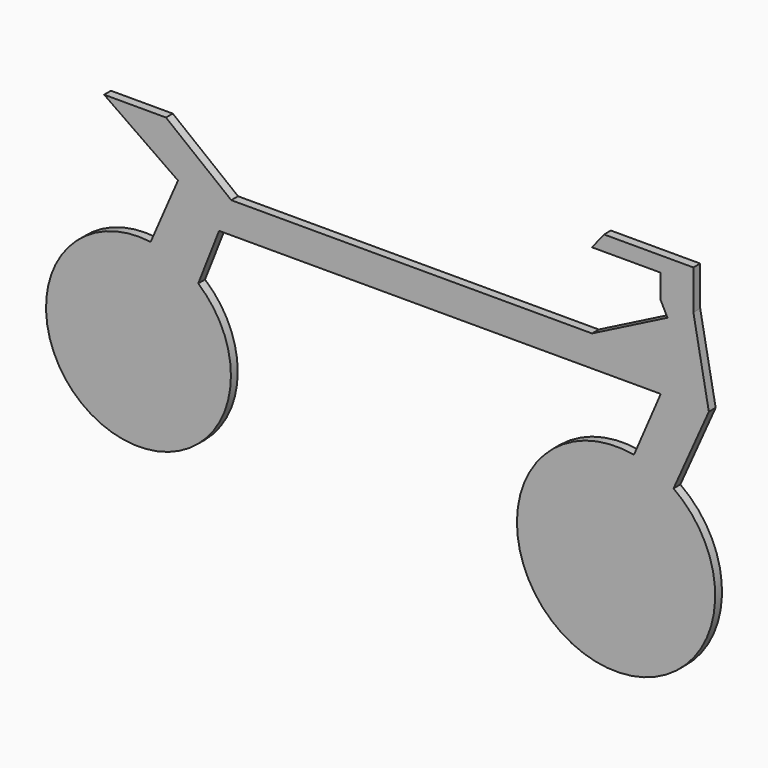
from build123d import *

# Parameters (mm, degrees)
F1_DEPTH = 12.7


with BuildPart() as f1:
    # F0 (on Front) → F1 (new body, symmetric)
    with BuildSketch(Plane.XZ):
        with BuildLine():
            Line((-1057.6775074005, 245.6824481487), (-1241.9394254684, 245.6824481487))
            Line((-1241.9394254684, 245.6824481487), (-1021.8489170074, 92.1309143305))
            Line((-1021.8489170074, 92.1309143305), (-1103.3340978601, -95.4745180888))
            ThreePointArc((-1103.3340978601, -95.4745180888), (-1027.9396697244, -116.715613209), (-961.5728893811, -158.3203531153))
            Line((-961.5728893811, -158.3203531153), (-899.3741212602, 0))
            Line((-899.3741212602, 0), (-863.1789684296, 92.1309143305))
            Line((-863.1789684296, 92.1309143305), (-1057.6775074005, 245.6824481487))
        make_face()
        with BuildLine():
            Line((211.681753397, 92.1309143305), (-863.1789684296, 92.1309143305))
            Line((-863.1789684296, 92.1309143305), (-899.3741212602, 0))
            Line((-899.3741212602, 0), (211.681753397, 0))
            Line((211.681753397, 0), (416.4171516895, 0))
            Line((416.4171516895, 0), (336.6161384409, -185.5373383788))
            ThreePointArc((336.6161384409, -185.5373383788), (398.331274837, -203.9996950743), (454.5750353168, -235.4044094059))
            Line((454.5750353168, -235.4044094059), (559.731900692, 0))
            Line((559.731900692, 0), (513.6663913727, 245.6824481487))
            Line((513.6663913727, 245.6824481487), (436.3953157007, 206.3920648075))
            Line((436.3953157007, 206.3920648075), (211.681753397, 92.1309143305))
        make_face()
        with BuildLine():
            ThreePointArc((-961.5728893811, -158.3203531153), (-1027.9396697244, -116.715613209), (-1103.3340978601, -95.4745180888))
            Line((-1103.3340978601, -95.4745180888), (-1241.9394254684, -414.5891368389))
            Line((-1241.9394254684, -414.5891368389), (-1088.444530714, -481.2586308815))
            Line((-1088.444530714, -481.2586308815), (-961.5728893811, -158.3203531153))
        make_face()
        with BuildLine():
            Line((-1241.9394254684, -414.5891368389), (-1103.3340978601, -95.4745180888))
            ThreePointArc((-1103.3340978601, -95.4745180888), (-1346.7556287169, -550.0279264807), (-864.1283988154, -368.5236573219))
            ThreePointArc((-864.1283988154, -368.5236573219), (-889.6741289698, -252.6780080284), (-961.5728893811, -158.3203531153))
            Line((-961.5728893811, -158.3203531153), (-1088.444530714, -481.2586308815))
            Line((-1088.444530714, -481.2586308815), (-1241.9394254684, -414.5891368389))
        make_face()
        Polygon((416.4171516895, 245.6824481487), (436.3953157007, 206.3920648075), (513.6663913727, 245.6824481487), (513.6663913727, 363.4053170681), (247.5104480982, 363.4053170681), (211.681753397, 318.0223202374), (416.4171516895, 318.0223202374), align=None)
        with BuildLine():
            ThreePointArc((454.5750353168, -235.4044094059), (398.331274837, -203.9996950743), (336.6161384409, -185.5373383788))
            Line((336.6161384409, -185.5373383788), (211.681753397, -476.0097563267))
            Line((211.681753397, -476.0097563267), (140.0243788958, -593.7325954437))
            Line((140.0243788958, -593.7325954437), (261.4818676175, -667.6632347367))
            Line((261.4818676175, -667.6632347367), (454.5750353168, -235.4044094059))
        make_face()
        with BuildLine():
            Line((211.681753397, -476.0097563267), (336.6161384409, -185.5373383788))
            ThreePointArc((336.6161384409, -185.5373383788), (56.4621778096, -665.058709273), (578.6570458345, -476.0097563267))
            ThreePointArc((578.6570458345, -476.0097563267), (545.8097969263, -340.6516402965), (454.5750353168, -235.4044094059))
            Line((454.5750353168, -235.4044094059), (261.4818676175, -667.6632347367))
            Line((261.4818676175, -667.6632347367), (140.0243788958, -593.7325954437))
            Line((140.0243788958, -593.7325954437), (211.681753397, -476.0097563267))
        make_face()
    extrude(amount=F1_DEPTH, both=True)


solid = f1.part
